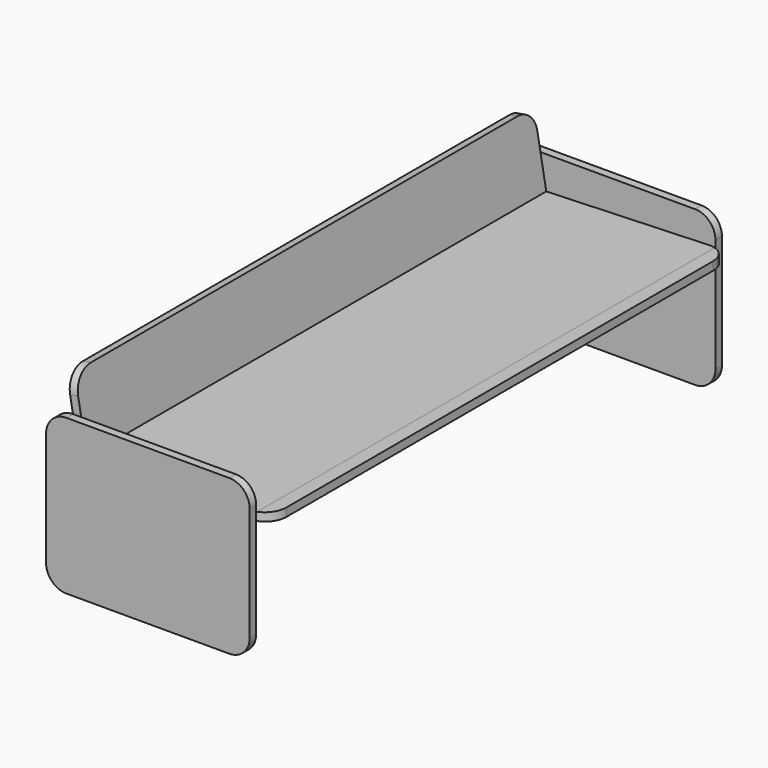
from build123d import *

# Parameters (mm, degrees)
F1_DEPTH  = 2
F2_START  = -143
F1_FACE_W = 50
F1_FACE_H = 38
F2_DEPTH  = 2
F3_START  = -2
F3_DEPTH  = 141
F4_START  = -2
F4_DEPTH  = 141
F5_R      = 5
F5_2_R    = 5
F5_3_R    = 5
F5_4_R    = 5


with BuildPart() as f1:
    # F0 (on Front) → F1 (new body)
    with BuildSketch(Plane.XZ):
        Polygon((-16.5497043093, 10.9499417435), (25, 12.4008893901), (25, 19), (-17.9691467762, 19), align=None)
        Polygon((-16.1989948739, 8.9609696983), (25, 10.3996703016), (25, 12.4008893901), (-16.5497043093, 10.9499417435), align=None)
        Polygon((-25, 19), (-25, -19), (25, -19), (25, 10.3996703016), (-16.1989948739, 8.9609696983), (-13.5222860803, -6.2194002193), (-15.4919015863, -6.5666965746), (-20, 19), align=None)
        Polygon((-17.9691467762, 19), (-20, 19), (-15.4919015863, -6.5666965746), (-13.5222860803, -6.2194002193), (-16.1989948739, 8.9609696983), (-16.4799053159, 8.9511600895), (-16.5497043093, 10.9499417435), align=None)
        Polygon((-16.4799053159, 8.9511600895), (-16.1989948739, 8.9609696983), (-16.5497043093, 10.9499417435), align=None)
    extrude(amount=-F1_DEPTH)

    # F5#2
    f5_2_edges = [f1.edges().sort_by_distance(p)[0] for p in [
        (-25, 1, 19),
        (25, 1, 19),
        (25, 1, -19),
        (-25, 1, -19),
    ]]
    fillet(f5_2_edges, radius=F5_2_R)


with BuildPart() as f2:
    # F1_face (on face) → F2 (new body)
    with BuildSketch(Plane.XZ.offset(F2_START)):
        Rectangle(F1_FACE_W, F1_FACE_H)
    extrude(amount=-F2_DEPTH)

    # F5#4
    f5_4_edges = [f2.edges().sort_by_distance(p)[0] for p in [
        (25, 144, -19),
        (-25, 144, -19),
        (-25, 144, 19),
        (25, 144, 19),
    ]]
    fillet(f5_4_edges, radius=F5_4_R)


with BuildPart() as f3:
    # F0 (on Front) → F3 (new body)
    with BuildSketch(Plane.XZ.offset(F3_START)):
        Polygon((-17.9691467762, 19), (-20, 19), (-15.4919015863, -6.5666965746), (-13.5222860803, -6.2194002193), (-16.1989948739, 8.9609696983), (-16.4799053159, 8.9511600895), (-16.5497043093, 10.9499417435), align=None)
        Polygon((-21.5695878046, 27.9015747808), (-20, 19), (-17.9691467762, 19), (-19.5999722986, 28.2488711361), align=None)
        Polygon((-16.4799053159, 8.9511600895), (-16.1989948739, 8.9609696983), (-16.5497043093, 10.9499417435), align=None)
    extrude(amount=-F3_DEPTH)

    # F5
    f5_edges = [f3.edges().sort_by_distance(p)[0] for p in [
        (-20.58478, 2, 28.075223),
        (-20.58478, 143, 28.075223),
        (-14.507094, 2, -6.393048),
    ]]
    fillet(f5_edges, radius=F5_R)


with BuildPart() as f4:
    # F0 (on Front) → F4 (new body)
    with BuildSketch(Plane.XZ.offset(F4_START)):
        Polygon((-16.1989948739, 8.9609696983), (25, 10.3996703016), (25, 12.4008893901), (-16.5497043093, 10.9499417435), align=None)
        Polygon((25, 12.4008893901), (25, 10.3996703016), (28.4926818999, 10.5216374411), (28.4228829065, 12.5204190951), align=None)
    extrude(amount=-F4_DEPTH)

    # F5#3
    f5_3_edges = [f4.edges().sort_by_distance(p)[0] for p in [
        (28.457782, 2, 11.521028),
        (28.457782, 143, 11.521028),
    ]]
    fillet(f5_3_edges, radius=F5_3_R)


solid = Compound([f1.part, f2.part, f3.part, f4.part])
